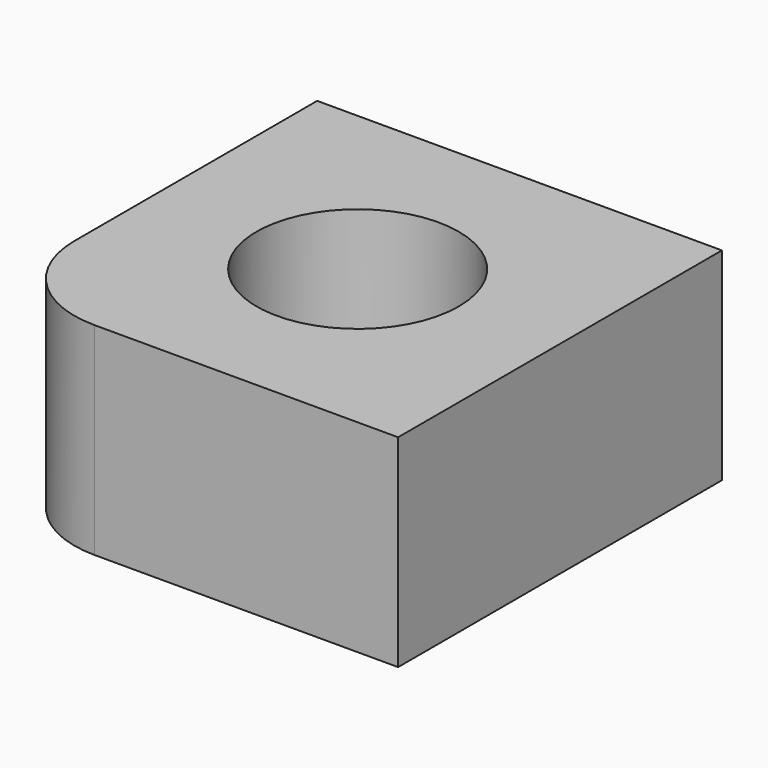
from build123d import *

# Parameters (mm, degrees)
F0_W     = 20
F0_H     = 20
F0_R     = 5
F1_DEPTH = 10
F2_R     = 5


with BuildPart() as f1:
    # F0 (on Top) → F1 (new body)
    with BuildSketch(Plane.XY):
        with Locations((0.079366, 0.03703)):
            Rectangle(F0_W, F0_H)
        with Locations((0.079366, 0.03703)):
            Circle(F0_R, mode=Mode.SUBTRACT)
    extrude(amount=F1_DEPTH)

    # F2
    f2_edges = [f1.edges().sort_by_distance(p)[0] for p in [
        (-9.920634, -9.96297, 5),
    ]]
    fillet(f2_edges, radius=F2_R)


solid = f1.part
